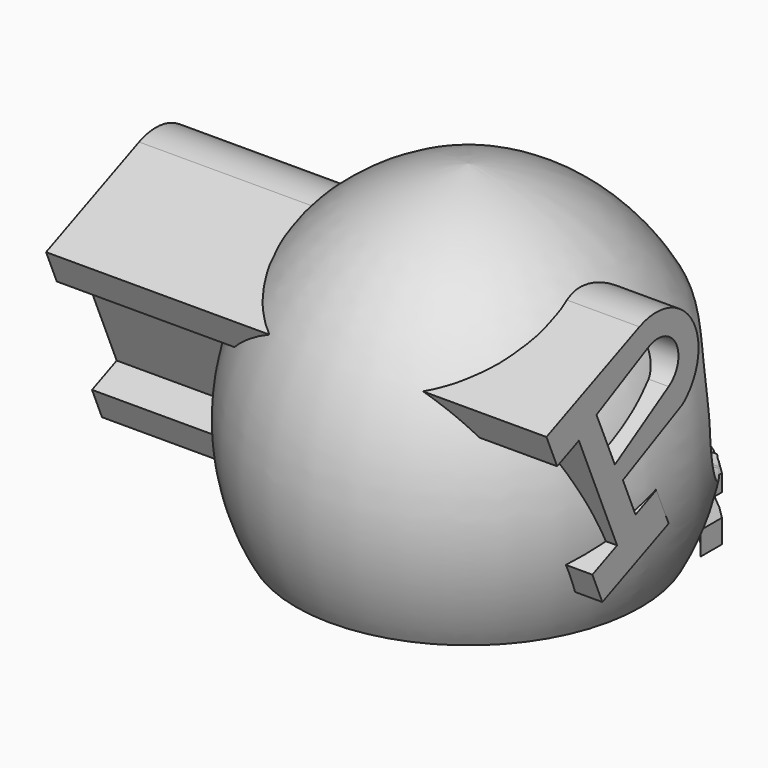
from build123d import *

# Parameters (mm, degrees)
F4_DEPTH  = 101.6
F5_W      = 4.2786095291
F5_H      = 3.4228879958
F5_W_2    = 3.4228870645
F6_DEPTH  = 50.8
F8_DEPTH  = 25.4
F10_DEPTH = 76.2


with BuildPart() as f1:
    # F0 (on Front) → F1 (revolve)
    with BuildSketch(Plane.XZ):
        with BuildLine():
            Line((24.3880730122, 0), (26.2421369553, 0))
            ThreePointArc((26.2421369553, 0), (26.6908308904, 32.4516655395), (0, 50.915453583))
            Line((0, 50.915453583), (0, 48.3482889831))
            ThreePointArc((0, 48.3482889831), (25.5756610227, 30.9241669349), (24.3880730122, 0))
        make_face()
    revolve(axis=Axis((0, 0, 25.4577267915), (0, 0, -1)))

    # F3 (on offset) → F4 (cut)
    with BuildSketch(Plane.YZ.offset(30.48)):
        with BuildLine():
            add(Edge.make_bspline(
                [(10.2686649188, 20.1094653457), (10.6607857766, 23.215814743), (11.561629871, 30.352228056), (21.3084243847, 33.4677998075), (26.8126185983, 35.2272205055)],
                knots=[0, 0, 0, 0, 0.4352815989, 1, 1, 1, 1], degree=3))
            ThreePointArc((10.2686649188, 20.1094653457), (13.2133305212, 11.9083060619), (21.6782875359, 9.8408022895))
            ThreePointArc((21.6782875359, 9.8408022895), (24.0790511009, 4.9204011448), (21.6782875359, 0))
            Line((21.6782875359, 0), (36.5108028054, 0))
            Line((36.5108028054, 0), (36.5108028054, 35.2272205055))
            Line((36.5108028054, 35.2272205055), (26.8126185983, 35.2272205055))
        make_face()
    extrude(amount=-F4_DEPTH, mode=Mode.SUBTRACT)


with BuildPart() as f6:
    # F5 (on Front) → F6 (new body)
    with BuildSketch(Plane.XZ):
        Polygon((23.674974218, 6.9883959368), (23.674974218, 9.555561468), (-21.3930476457, 9.555561468), (-21.3930476457, 6.9883959368), (-10.2686630562, 6.9883959368), (-6.8457759917, 6.9883959368), (5.7048127055, 6.9883959368), (9.9834222347, 6.9883959368), align=None)
        with Locations((7.8441174701, 5.2769519389)):
            Rectangle(F5_W, F5_H)
        Polygon((23.674974218, 3.5655079409), (9.9834222347, 3.5655079409), (5.7048127055, 3.5655079409), (-6.8457759917, 3.5655079409), (-10.2686630562, 3.5655079409), (-21.3930476457, 3.5655079409), (-21.3930476457, 0), (23.674974218, 0), align=None)
        with Locations((-8.5572195239, 5.2769519389)):
            Rectangle(F5_W_2, F5_H)
    extrude(amount=-F6_DEPTH)

    # F7 (on Top) → F8 (cut)
    with BuildSketch(Plane.XY):
        with BuildLine():
            ThreePointArc((-29.3797869235, 9.555561468), (-0.8293181148, 28.9098457402), (28.8093015552, 11.2670054659))
            Line((28.8093015552, 11.2670054659), (28.8093015552, 50.8))
            Line((28.8093015552, 50.8), (-29.3797869235, 50.8))
            Line((-29.3797869235, 50.8), (-29.3797869235, 9.555561468))
        make_face()
        with BuildLine():
            Line((25.6716553122, 0), (25.6716553122, 11.2670054659))
            ThreePointArc((25.6716553122, 11.2670054659), (-1.1097561353, 26.9489758755), (-26.8126223236, 9.555561468))
            Line((-26.8126223236, 9.555561468), (-26.8126223236, 0))
            Line((-26.8126223236, 0), (0, 0))
            Line((0, 0), (25.6716553122, 0))
        make_face()
    extrude(amount=F8_DEPTH, mode=Mode.SUBTRACT)


with BuildPart() as f10:
    # F9 (on offset) → F10 (new body)
    with BuildSketch(Plane.YZ.offset(30.48)):
        with BuildLine():
            Line((-8.7084273481, 21.9392631481), (2.7097838465, 27.5257229805))
            ThreePointArc((2.7097838465, 27.5257229805), (4.5270894947, 37.9682786695), (-5.5621927604, 41.2172712386))
            Line((-5.5621927604, 41.2172712386), (-23.261415191, 33.6454835181))
            Line((-23.261415191, 33.6454835181), (-21.2237862541, 28.8824804973))
            Line((-21.2237862541, 28.8824804973), (-17.0900476853, 30.6509079554))
            Line((-17.0900476853, 30.6509079554), (-9.8133679388, 13.6415069862))
            Line((-9.8133679388, 13.6415069862), (-14.5182238247, 11.628753592))
            Line((-14.5182238247, 11.628753592), (-12.6168593735, 7.1842718412))
            Line((-12.6168593735, 7.1842718412), (0, 12.581807312))
            Line((0, 12.581807312), (-2.3310728385, 18.0307419882))
            Line((-2.3310728385, 18.0307419882), (-6.3084296867, 16.3292151635))
            Line((-6.3084296867, 16.3292151635), (-8.7084273481, 21.9392631481))
        make_face()
        with BuildLine():
            ThreePointArc((-3.850749461, 37.7943851054), (1.3629696536, 36.2211910493), (0, 30.9486091137))
            Line((0, 30.9486091137), (-10.2368343749, 24.637380287))
            Line((-10.2368343749, 24.637380287), (-13.7373718367, 32.7436801089))
            Line((-13.7373718367, 32.7436801089), (-3.850749461, 37.7943851054))
        make_face(mode=Mode.SUBTRACT)
    extrude(amount=-F10_DEPTH)


solid = Compound([f1.part, f6.part, f10.part])
